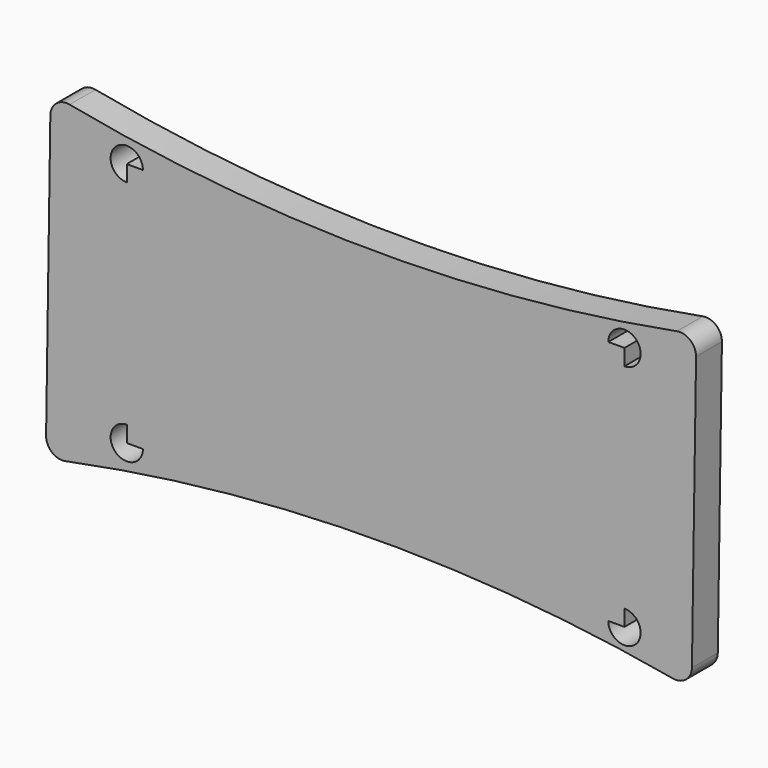
from build123d import *

# Parameters (mm, degrees)
F1_DEPTH = 12.7


with BuildPart() as f1:
    # F0 (on Front) → F1 (new body)
    with BuildSketch(Plane.XZ):
        with BuildLine():
            ThreePointArc((-111.7854855043, 60.0914934764), (-117.0009180363, 58.7895752727), (-119.3490986665, 53.9541047441))
            Line((-119.3490986665, 53.9541047441), (-121.0235718422, -57.4661964465))
            ThreePointArc((-121.0235718422, -57.4661964465), (-118.7321887124, -62.4458714068), (-113.4169318002, -63.7858875693))
            ThreePointArc((-113.4169318002, -63.7858875693), (5.8194598315, -51.2462802184), (125.2875451839, -61.342587667))
            ThreePointArc((125.2875451839, -61.342587667), (130.4516810172, -59.9975277939), (132.7665159819, -55.1893031681))
            Line((132.7665159819, -55.1893031681), (134.3916756088, 52.9496492702))
            ThreePointArc((134.3916756088, 52.9496492702), (132.1335540806, 57.9014975558), (126.870166184, 59.2859332278))
            ThreePointArc((126.870166184, 59.2859332278), (7.5041551968, 48.3759652136), (-111.7854855043, 60.0914934764))
        make_face()
        with BuildLine():
            ThreePointArc((-89.3220306988, 40.4771303502), (-93.8121587593, 51.3172584107), (-82.9720306988, 46.8271303502))
            Line((-82.9720306988, 46.8271303502), (99.9079693012, 46.8271303502))
            ThreePointArc((99.9079693012, 46.8271303502), (106.2579693012, 53.1771303502), (112.6079693012, 46.8271303502))
            ThreePointArc((112.6079693012, 46.8271303502), (110.7480973618, 42.3370022896), (106.2579693012, 40.4771303502))
            Line((106.2579693012, 40.4771303502), (106.2579693012, -43.3428696498))
            ThreePointArc((106.2579693012, -43.3428696498), (110.7480973618, -45.2027415893), (112.6079693012, -49.6928696498))
            ThreePointArc((112.6079693012, -49.6928696498), (106.2579693012, -56.0428696498), (99.9079693012, -49.6928696498))
            Line((99.9079693012, -49.6928696498), (-82.9720306988, -49.6928696498))
            ThreePointArc((-82.9720306988, -49.6928696498), (-93.8121587593, -54.1829977104), (-89.3220306988, -43.3428696498))
            Line((-89.3220306988, -43.3428696498), (-89.3220306988, 40.4771303502))
        make_face(mode=Mode.SUBTRACT)
        with BuildLine():
            Line((99.9079693012, 46.8271303502), (-82.9720306988, 46.8271303502))
            ThreePointArc((-82.9720306988, 46.8271303502), (-84.8319026382, 42.3370022896), (-89.3220306988, 40.4771303502))
            Line((-89.3220306988, 40.4771303502), (-89.3220306988, -43.3428696498))
            ThreePointArc((-89.3220306988, -43.3428696498), (-84.8319026382, -45.2027415893), (-82.9720306988, -49.6928696498))
            Line((-82.9720306988, -49.6928696498), (99.9079693012, -49.6928696498))
            ThreePointArc((99.9079693012, -49.6928696498), (101.7678412407, -45.2027415893), (106.2579693012, -43.3428696498))
            Line((106.2579693012, -43.3428696498), (106.2579693012, 40.4771303502))
            ThreePointArc((106.2579693012, 40.4771303502), (101.7678412407, 42.3370022896), (99.9079693012, 46.8271303502))
        make_face()
        with BuildLine():
            ThreePointArc((-89.3220306988, 40.4771303502), (-84.8319026382, 42.3370022896), (-82.9720306988, 46.8271303502))
            Line((-82.9720306988, 46.8271303502), (-89.3220306988, 46.8271303502))
            Line((-89.3220306988, 46.8271303502), (-89.3220306988, 40.4771303502))
        make_face()
        with BuildLine():
            ThreePointArc((-82.9720306988, -49.6928696498), (-84.8319026382, -45.2027415893), (-89.3220306988, -43.3428696498))
            Line((-89.3220306988, -43.3428696498), (-89.3220306988, -49.6928696498))
            Line((-89.3220306988, -49.6928696498), (-82.9720306988, -49.6928696498))
        make_face()
        with BuildLine():
            Line((106.2579693012, 46.8271303502), (99.9079693012, 46.8271303502))
            ThreePointArc((99.9079693012, 46.8271303502), (101.7678412407, 42.3370022896), (106.2579693012, 40.4771303502))
            Line((106.2579693012, 40.4771303502), (106.2579693012, 46.8271303502))
        make_face()
        with BuildLine():
            Line((106.2579693012, -49.6928696498), (106.2579693012, -43.3428696498))
            ThreePointArc((106.2579693012, -43.3428696498), (101.7678412407, -45.2027415893), (99.9079693012, -49.6928696498))
            Line((99.9079693012, -49.6928696498), (106.2579693012, -49.6928696498))
        make_face()
    extrude(amount=F1_DEPTH)


solid = f1.part
